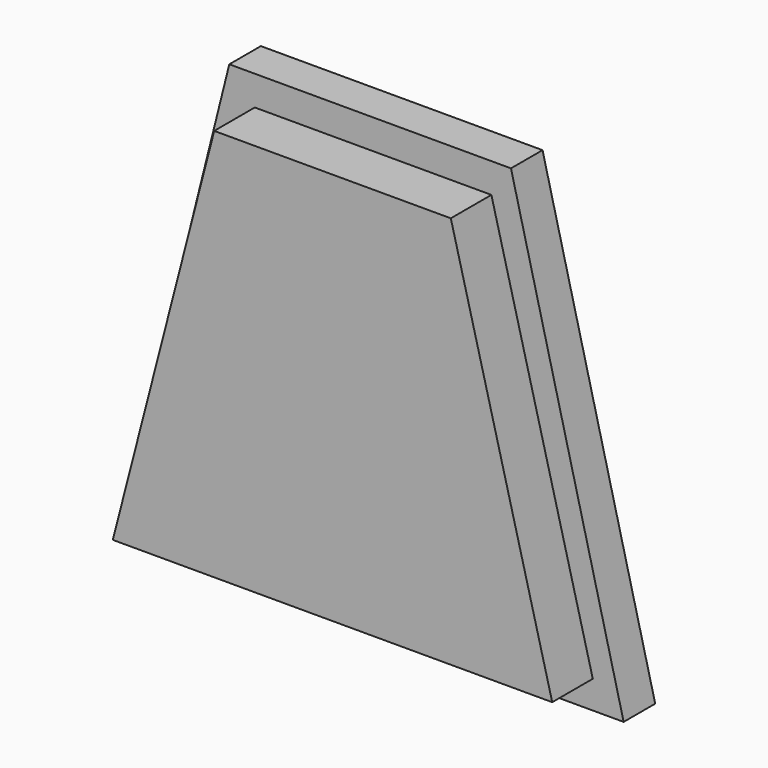
from build123d import *

# Parameters (mm, degrees)
EXTRUDE006_DEPTH = 7
EXTRUDE002_DEPTH = 15


with BuildPart() as extrude006:
    # Sketch007 → Extrude006 (new body)
    with BuildSketch(Plane(origin=(0, 20, 0), x_dir=(-1, 0, 0), z_dir=(0, 1, 0))):
        Polygon((-90, 0), (-69.999121, 80.000221), (-19.999121, 80.000221), (0, 0), align=None)
    extrude(amount=EXTRUDE006_DEPTH)


with BuildPart() as fusion:
    # Sketch003 → Extrude002 (new body)
    with BuildSketch(Plane.XZ):
        Polygon((6.519191, 4.955519), (24.519191, 74.72189), (66.519191, 74.72189), (84.519191, 4.955519), align=None)
    extrude(amount=EXTRUDE002_DEPTH)


with BuildPart() as fusion_1:
    # Extrude002 placement: moved
    add(fusion.part.moved(Location((0, 26, 0))))

    # Fusion: union Extrude006
    add(extrude006.part)


solid = fusion_1.part
